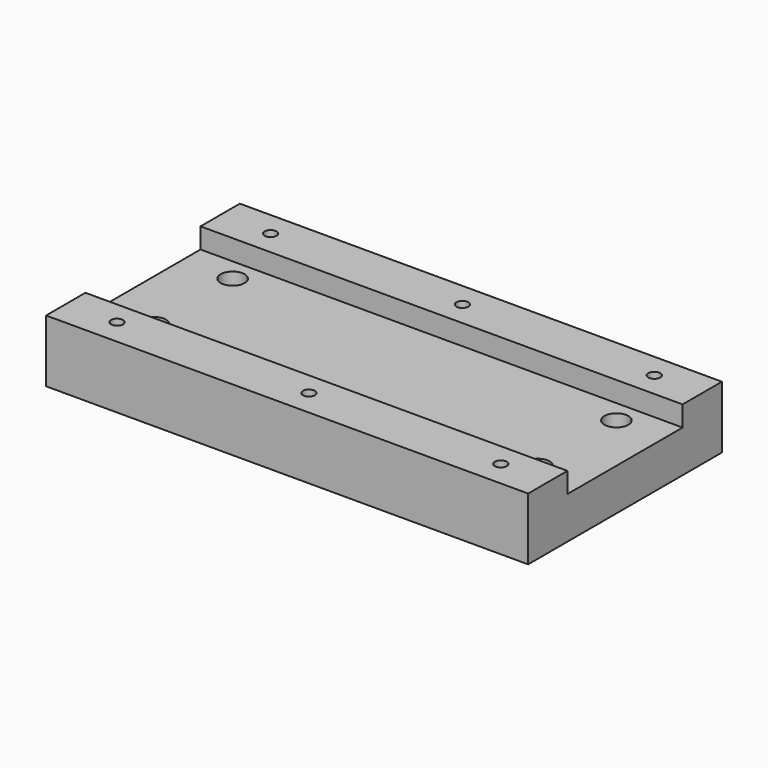
from build123d import *

# Parameters (mm, degrees)
F0_W     = 201
F0_H     = 20.5
F0_R     = 2.5
F1_DEPTH = 26
F0_H_2   = 60
F0_R_2   = 5
F2_DEPTH = 17.5


with BuildPart() as f1:
    # F0 (on Top) → F1 (new body)
    with BuildSketch(Plane.XY):
        with Locations((0, 40.25)):
            Rectangle(F0_W, F0_H)
        with Locations((-79.5, 40.25)):
            Circle(F0_R, mode=Mode.SUBTRACT)
        with Locations((0.5, 40.25)):
            Circle(F0_R, mode=Mode.SUBTRACT)
        with Locations((80.5, 40.25)):
            Circle(F0_R, mode=Mode.SUBTRACT)
        with Locations((0, -40.25)):
            Rectangle(F0_W, F0_H)
        with Locations((-79.5, -39.75)):
            Circle(F0_R, mode=Mode.SUBTRACT)
        with Locations((0.5, -39.75)):
            Circle(F0_R, mode=Mode.SUBTRACT)
        with Locations((80.5, -39.75)):
            Circle(F0_R, mode=Mode.SUBTRACT)
    extrude(amount=F1_DEPTH)

    # F0 (on Top) → F2 (join)
    with BuildSketch(Plane.XY):
        Rectangle(F0_W, F0_H_2)
        with Locations((-79.5, -20.5)):
            Circle(F0_R_2, mode=Mode.SUBTRACT)
        with Locations((80.5, -20.5)):
            Circle(F0_R_2, mode=Mode.SUBTRACT)
        with Locations((-79.5, 20.5)):
            Circle(F0_R_2, mode=Mode.SUBTRACT)
        with Locations((80.5, 20.5)):
            Circle(F0_R_2, mode=Mode.SUBTRACT)
    extrude(amount=F2_DEPTH)


solid = f1.part
